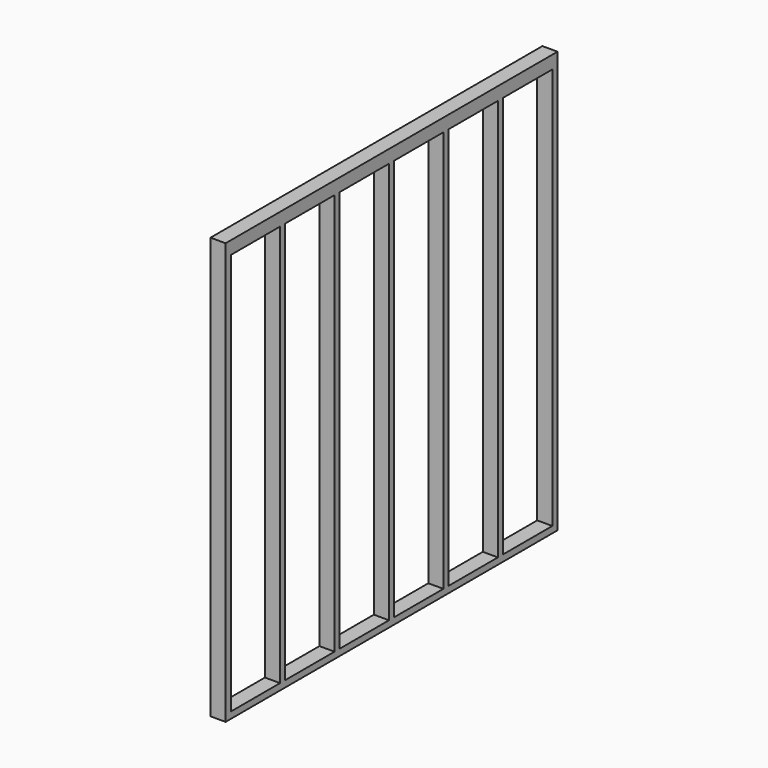
from build123d import *

# Parameters (mm, degrees)
F0_W     = 2438.4
F0_H     = 2438.4
F0_W_2   = 38.1
F0_H_2   = 2362.2
F0_H_3   = 38.1
F1_DEPTH = 88.9
F2_ANGLE = 90


with BuildPart() as f1:
    # F0 (on Front) → F1 (new body)
    with BuildSketch(Plane.XZ):
        with Locations((31.3295868914, -68.1334469899)):
            Rectangle(F0_W, F0_H)
        Polygon((-1149.7704131086, -1249.2334469899), (-1149.7704131086, 1112.9665530101), (-787.8204131086, 1112.9665530101), (-749.7204131086, 1112.9665530101), (-387.7704131086, 1112.9665530101), (-349.6704131086, 1112.9665530101), (12.2795868914, 1112.9665530101), (50.3795868914, 1112.9665530101), (412.3295868914, 1112.9665530101), (450.4295868914, 1112.9665530101), (812.3795868914, 1112.9665530101), (850.4795868914, 1112.9665530101), (1164.1096339266, 1112.9665530101), (1212.4295868914, 1112.9665530101), (1212.4295868914, -1249.2334469899), (850.4795868914, -1249.2334469899), (812.3795868914, -1249.2334469899), (450.4295868914, -1249.2334469899), (412.3295868914, -1249.2334469899), (50.3795868914, -1249.2334469899), (12.2795868914, -1249.2334469899), (-349.6704131086, -1249.2334469899), (-387.7704131086, -1249.2334469899), (-749.7204131086, -1249.2334469899), (-787.8204131086, -1249.2334469899), align=None, mode=Mode.SUBTRACT)
        with Locations((831.4295868914, -68.1334469899)):
            Rectangle(F0_W_2, F0_H_2)
        with Locations((431.3795868914, -68.1334469899)):
            Rectangle(F0_W_2, F0_H_2)
        with Locations((31.3295868914, -68.1334469899)):
            Rectangle(F0_W_2, F0_H_2)
        with Locations((-368.7204131086, -68.1334469899)):
            Rectangle(F0_W_2, F0_H_2)
        with Locations((-768.7704131086, -68.1334469899)):
            Rectangle(F0_W_2, F0_H_2)
        with Locations((31.3295868914, 1170.1165530101)):
            Rectangle(F0_W, F0_H_3)
    extrude(amount=F1_DEPTH)


with BuildPart() as f1_1:
    # F2: moved
    add(f1.part.rotate(Axis((1250.5295868914, -88.9, -49.0834469899), (0, 0, -1)), F2_ANGLE))


solid = f1_1.part
